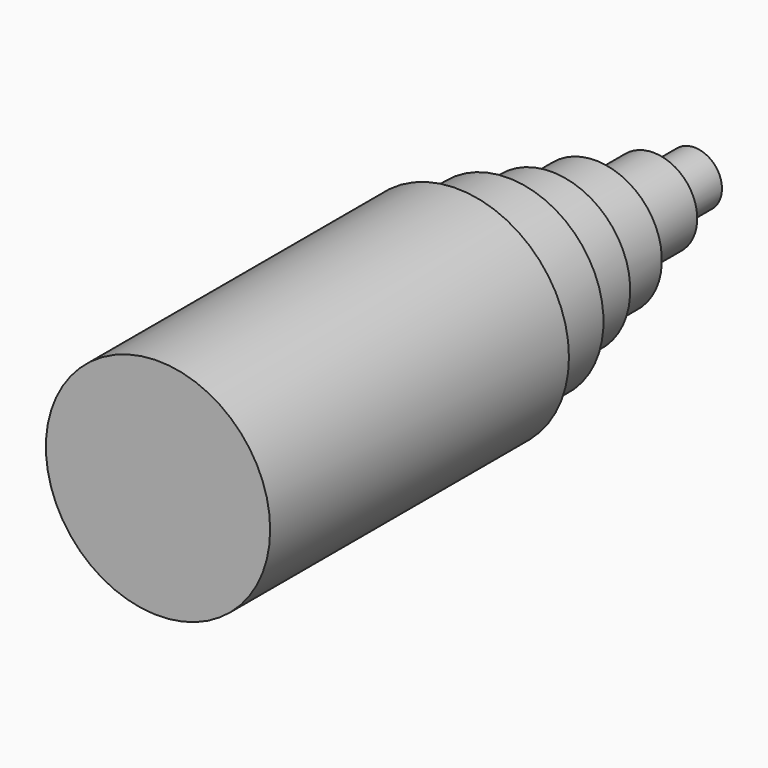
from build123d import *

# Parameters (mm, degrees)
F0_R      = 25.5
F1_DEPTH  = 84.92
F2_R      = 21.74
F3_DEPTH  = 14.52
F4_R      = 17.9
F5_DEPTH  = 12.4
F6_R      = 15.09
F7_DEPTH  = 12.5
F8_R      = 9.96
F9_DEPTH  = 16.46
F10_R     = 6.227418
F11_DEPTH = 11.7


with BuildPart() as f1:
    # F0 (on Front) → F1 (new body)
    with BuildSketch(Plane.XZ):
        Circle(F0_R)
    extrude(amount=-F1_DEPTH)

    # F2 (on face) → F3 (join)
    with BuildSketch(Plane(origin=(0, 84.92, 0), x_dir=(-1, 0, 0), z_dir=(0, 1, 0))):
        Circle(F2_R)
    extrude(amount=F3_DEPTH)

    # F4 (on face) → F5 (join)
    with BuildSketch(Plane(origin=(0, 99.44, 0), x_dir=(-1, 0, 0), z_dir=(0, 1, 0))):
        Circle(F4_R)
    extrude(amount=F5_DEPTH)

    # F6 (on face) → F7 (join)
    with BuildSketch(Plane(origin=(0, 111.84, 0), x_dir=(-1, 0, 0), z_dir=(0, 1, 0))):
        Circle(F6_R)
    extrude(amount=F7_DEPTH)

    # F8 (on face) → F9 (join)
    with BuildSketch(Plane(origin=(0, 124.34, 0), x_dir=(-1, 0, 0), z_dir=(0, 1, 0))):
        Circle(F8_R)
    extrude(amount=F9_DEPTH)

    # F10 (on face) → F11 (join)
    with BuildSketch(Plane(origin=(0, 140.8, 0), x_dir=(-1, 0, 0), z_dir=(0, 1, 0))):
        Circle(F10_R)
    extrude(amount=F11_DEPTH)


solid = f1.part
